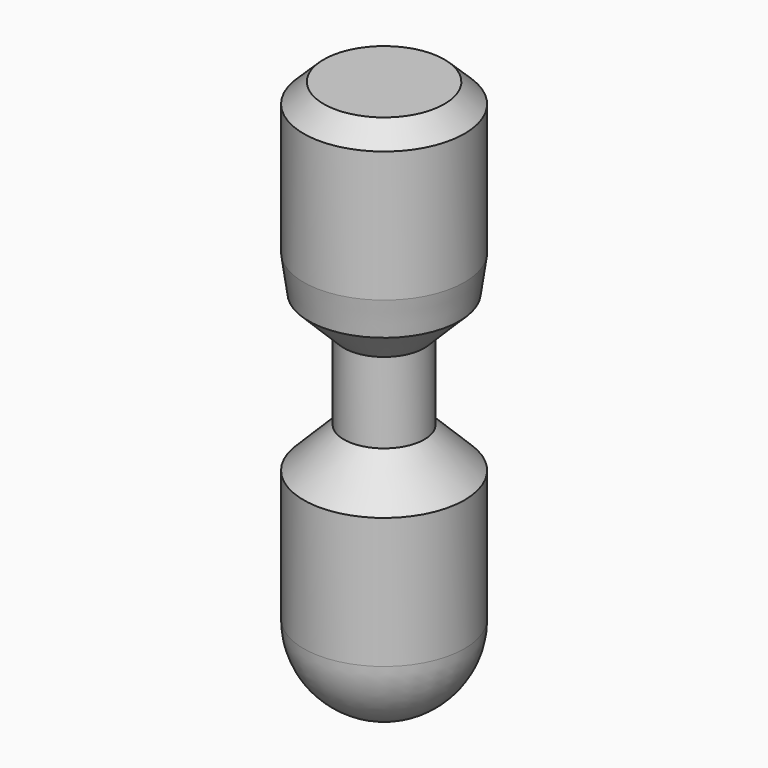
from build123d import *


with BuildPart() as f1:
    # F0 (on Front) → F1 (revolve)
    with BuildSketch(Plane.XZ):
        Polygon((3, 23.5), (0, 23.5), (0, 0), (4, 0), (4, 6.5), (2, 8.5), (2, 12.5), (3.75, 14.25), (4, 16.028842), (4, 22.528842), align=None)
    revolve(axis=Axis((0, 0, 7.965534), (0, 0, -1)))

    # F0 (on Front) → F2 (revolve)
    with BuildSketch(Plane.XZ):
        with BuildLine():
            Line((4, 0), (0, 0))
            Line((0, 0), (0, -4))
            ThreePointArc((0, -4), (2.828427, -2.828427), (4, 0))
        make_face()
    revolve(axis=Axis((0, 0, 7.965534), (0, 0, -1)))


solid = f1.part
